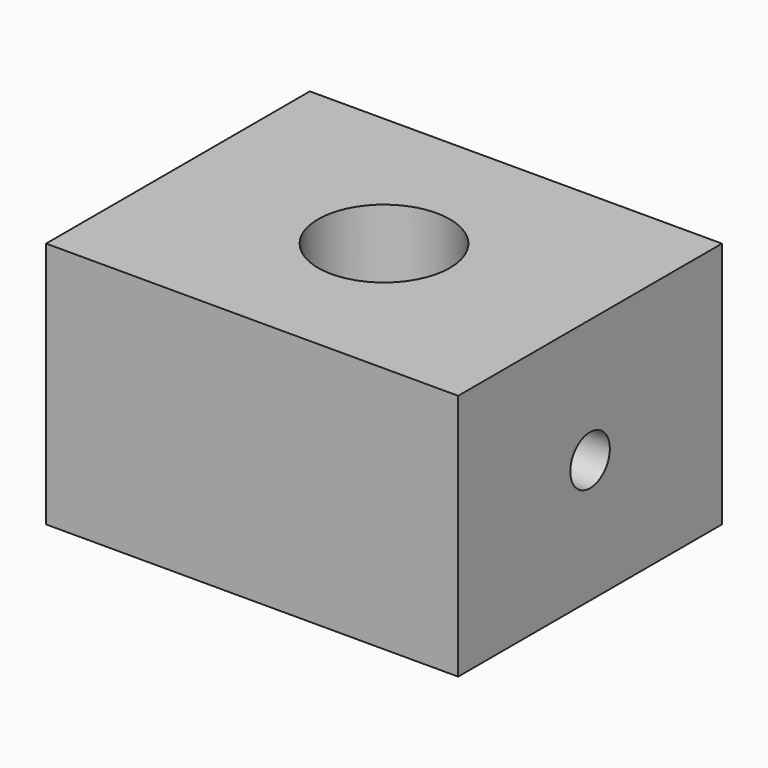
from build123d import *

# Parameters (mm, degrees)
F0_R     = 4
F1_DEPTH = 15
F2_R     = 1.5
F3_DEPTH = 50


with BuildPart() as f1:
    # F0 (on Top) → F1 (new body)
    with BuildSketch(Plane.XY):
        Polygon((-25, 0), (0, 0), (0, 20), (-12.5, 20), (-25, 20), align=None)
        with Locations((-12.5, 10)):
            Circle(F0_R, mode=Mode.SUBTRACT)
    extrude(amount=F1_DEPTH)

    # F2 (on face) → F3 (cut)
    with BuildSketch(Plane(origin=(-25, 0, 0), x_dir=(0, -1, 0), z_dir=(-1, 0, 0))):
        with Locations((-10, 7.5)):
            Circle(F2_R)
    extrude(amount=-F3_DEPTH, mode=Mode.SUBTRACT)


solid = f1.part
